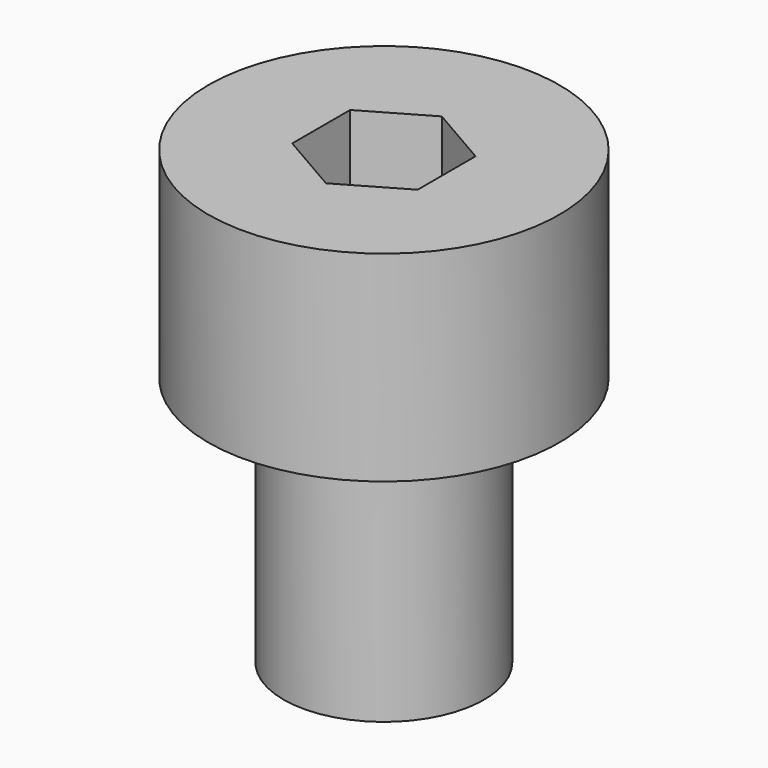
from build123d import *

# Parameters (mm, degrees)
CYLINDER028_R                      = 2
CYLINDER028_DEPTH                  = 9
CYLINDER027_R                      = 3.5
CYLINDER027_DEPTH                  = 4
FUSION001018017024_PLACEMENT_ANGLE = 180
POCKET002018004005005017010_DEPTH  = 2


with BuildPart() as cylinder028:
    # Cylinder028 → Cylinder028 (new body)
    with BuildSketch(Plane.XY):
        Circle(CYLINDER028_R)
    extrude(amount=CYLINDER028_DEPTH)


with BuildPart() as zylinderkopfschraube_m4x6_din912:
    # Cylinder027 → Cylinder027 (new body)
    with BuildSketch(Plane.XY):
        Circle(CYLINDER027_R)
    extrude(amount=CYLINDER027_DEPTH)

    # Fusion001018017024: union Cylinder028
    add(cylinder028.part)


with BuildPart() as zylinderkopfschraube_m4x6_din912_1:
    # Fusion001018017024 placement: moved
    add(zylinderkopfschraube_m4x6_din912.part.rotate(Axis((0, 0, 0), (0, 1, 0)), FUSION001018017024_PLACEMENT_ANGLE))

    # Sketch028 → Pocket002018004005005017010 (cut)
    with BuildSketch(Plane(origin=(0, 0, 0), x_dir=(-1, 0, 0), z_dir=(0, 0, 1))):
        Polygon((1.25, -0.721688), (1.25, 0.721688), (0, 1.443376), (-1.25, 0.721688), (-1.25, -0.721688), (0, -1.443376), align=None)
    extrude(amount=-POCKET002018004005005017010_DEPTH, mode=Mode.SUBTRACT)


solid = zylinderkopfschraube_m4x6_din912_1.part
